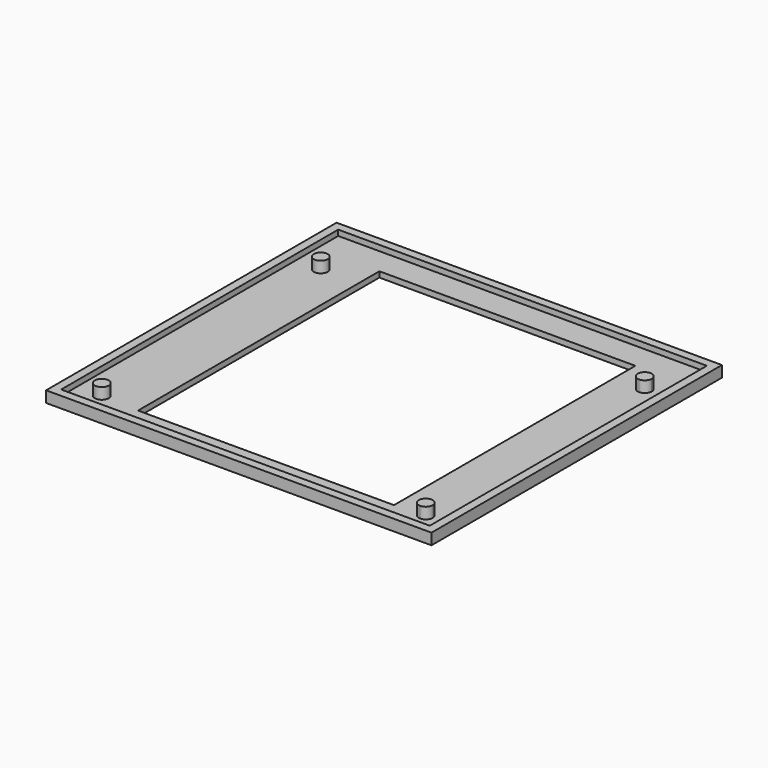
from build123d import *

# Parameters (mm, degrees)
F0_W     = 69
F0_H     = 65
F1_DEPTH = 1
F2_W     = 66
F2_H     = 62
F3_DEPTH = 1
F4_R     = 1.25
F5_DEPTH = 2
F6_W     = 45.8320826292
F6_H     = 54.0132429451
F7_DEPTH = 25


with BuildPart() as f1:
    # F0 (on Top) → F1 (new body)
    with BuildSketch(Plane.XY):
        Rectangle(F0_W, F0_H)
    extrude(amount=F1_DEPTH)

    # F2 (on face) → F3 (join)
    with BuildSketch(Plane.XY.offset(1)):
        Polygon((-33, 32.5), (-34.5, 32.5), (-34.5, 31), (-34.5, -31), (-34.5, -32.5), (-33, -32.5), (33, -32.5), (34.5, -32.5), (34.5, -31), (34.5, 31), (34.5, 32.5), (33, 32.5), align=None)
        Rectangle(F2_W, F2_H, mode=Mode.SUBTRACT)
    extrude(amount=F3_DEPTH)

    # F4 (on face) → F5 (join)
    with BuildSketch(Plane.XY.offset(1)):
        with Locations((-28.6, 21.6)):
            Circle(F4_R)
        with BuildLine():
            Line((29.4, 21.6), (29.4, 20.35))
            ThreePointArc((29.4, 20.35), (30.2838834765, 20.7161165235), (30.65, 21.6))
            ThreePointArc((30.65, 21.6), (29.4, 22.85), (28.15, 21.6))
            Line((28.15, 21.6), (29.4, 21.6))
        make_face()
        with BuildLine():
            ThreePointArc((28.15, 21.6), (28.5161165235, 20.7161165235), (29.4, 20.35))
            Line((29.4, 20.35), (29.4, 21.6))
            Line((29.4, 21.6), (28.15, 21.6))
        make_face()
        with BuildLine():
            Line((28.15, -27.4), (29.4, -27.4))
            Line((29.4, -27.4), (29.4, -26.15))
            ThreePointArc((29.4, -26.15), (28.5161165235, -26.5161165235), (28.15, -27.4))
        make_face()
        with BuildLine():
            ThreePointArc((28.15, -27.4), (28.5161165235, -28.2838834765), (29.4, -28.65))
            Line((29.4, -28.65), (29.4, -27.4))
            Line((29.4, -27.4), (28.15, -27.4))
        make_face()
        with BuildLine():
            Line((29.4, -27.4), (29.4, -28.65))
            ThreePointArc((29.4, -28.65), (30.2838834765, -28.2838834765), (30.65, -27.4))
            ThreePointArc((30.65, -27.4), (30.2838834765, -26.5161165235), (29.4, -26.15))
            Line((29.4, -26.15), (29.4, -27.4))
        make_face()
        with Locations((-28.6, -27.4)):
            Circle(F4_R)
    extrude(amount=F5_DEPTH)

    # F6 (on face) → F7 (cut)
    with BuildSketch(Plane.XY.offset(1)):
        with Locations((1.0845791548, -0.7542716339)):
            Rectangle(F6_W, F6_H)
    extrude(amount=-F7_DEPTH, mode=Mode.SUBTRACT)


solid = f1.part
